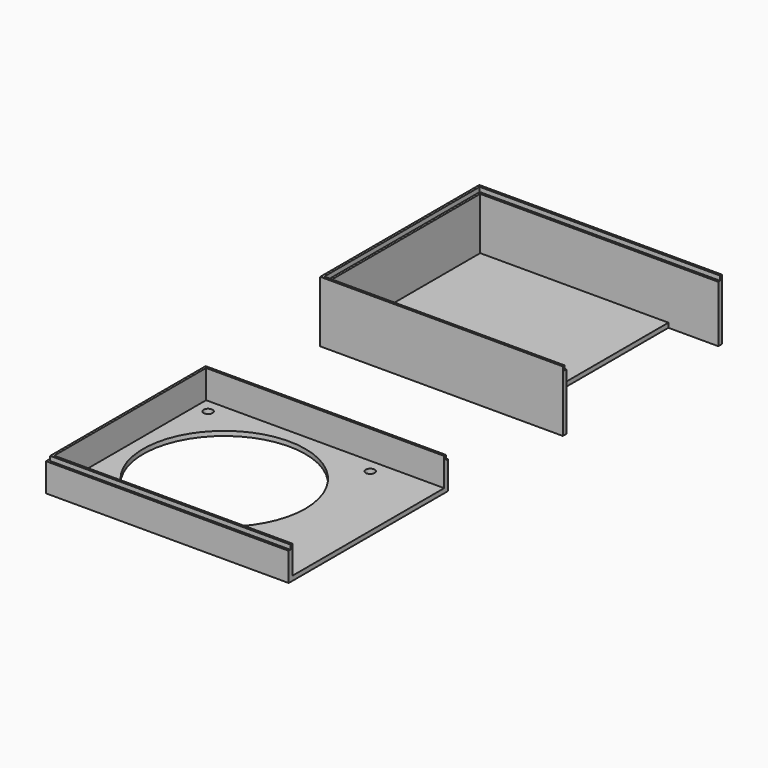
from build123d import *

# Parameters (mm, degrees)
F1_DEPTH  = 25
F0_W      = 83
F0_H      = 83.7
F2_DEPTH  = 2
F5_DEPTH  = 2
F6_DEPTH  = 2
F7_DEPTH  = 12.5
F3_W      = 105
F3_H      = 83.7
F3_R      = 2
F3_R_2    = 1.5
F3_R_3    = 35.75
F8_DEPTH  = 2
F10_DEPTH = 2


with BuildPart() as f1:
    # F0 (on Top) → F1 (new body)
    with BuildSketch(Plane.XY):
        Polygon((63.5, -41.85), (41.5, -41.85), (-41.5, -41.85), (-41.5, 41.85), (41.5, 41.85), (63.5, 41.85), (63.5, 43.85), (-43.5, 43.85), (-43.5, -43.85), (63.5, -43.85), align=None)
    extrude(amount=F1_DEPTH)

    # F0 (on Top) → F2 (join)
    with BuildSketch(Plane.XY):
        Rectangle(F0_W, F0_H)
    extrude(amount=F2_DEPTH)

    # F4 (on face) → F5 (join)
    with BuildSketch(Plane.XY.offset(25)):
        Polygon((63.5, -42.85), (-42.5, -42.85), (-42.5, 42.85), (63.5, 42.85), (63.5, 43.85), (-43.5, 43.85), (-43.5, -43.85), (63.5, -43.85), align=None)
    extrude(amount=F5_DEPTH)


with BuildPart() as f6:
    # F3 (on Top) → F6 (new body)
    with BuildSketch(Plane.XY):
        Polygon((58.305959, -100.763795), (-48.694041, -100.763795), (-48.694041, -188.463795), (58.305959, -188.463795), (58.305959, -186.463795), (-46.694041, -186.463795), (-46.694041, -102.763795), (58.305959, -102.763795), align=None)
    extrude(amount=F6_DEPTH)

    # F3 (on Top) → F7 (join)
    with BuildSketch(Plane.XY):
        Polygon((58.305959, -100.763795), (-48.694041, -100.763795), (-48.694041, -188.463795), (58.305959, -188.463795), (58.305959, -186.463795), (-46.694041, -186.463795), (-46.694041, -102.763795), (58.305959, -102.763795), align=None)
    extrude(amount=F7_DEPTH)

    # F3 (on Top) → F8 (join)
    with BuildSketch(Plane.XY):
        with Locations((5.805959, -144.613795)):
            Rectangle(F3_W, F3_H)
        with Locations((-40.944041, -180.363795)):
            Circle(F3_R, mode=Mode.SUBTRACT)
        with Locations((30.555959, -180.363795)):
            Circle(F3_R, mode=Mode.SUBTRACT)
        with Locations((39.813004, -180.963795)):
            Circle(F3_R_2, mode=Mode.SUBTRACT)
        with Locations((-5.194041, -144.613795)):
            Circle(F3_R_3, mode=Mode.SUBTRACT)
        with Locations((-40.944041, -108.863795)):
            Circle(F3_R, mode=Mode.SUBTRACT)
        with Locations((30.555959, -108.863795)):
            Circle(F3_R, mode=Mode.SUBTRACT)
    extrude(amount=F8_DEPTH)

    # F9 (on face) → F10 (join)
    with BuildSketch(Plane.XY.offset(12.5)):
        Polygon((58.305959, -187.463795), (58.305959, -186.463795), (-46.694041, -186.463795), (-46.694041, -102.763795), (58.305959, -102.763795), (58.305959, -101.763795), (-47.694041, -101.763795), (-47.694041, -187.463795), align=None)
    extrude(amount=F10_DEPTH)


solid = Compound([f1.part, f6.part])
